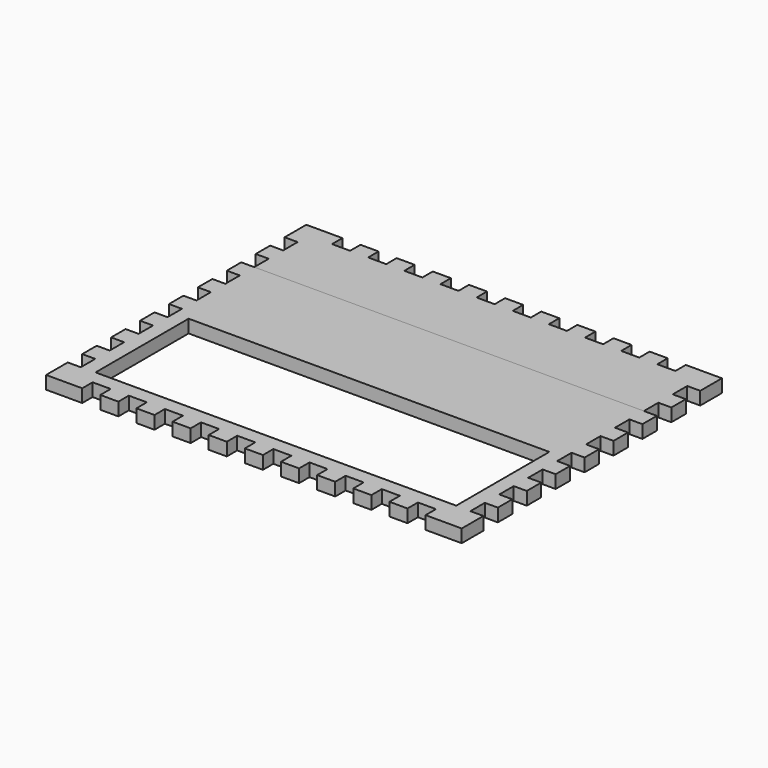
from build123d import *

# Parameters (mm, degrees)
F1_DEPTH = 9.144
F0_W     = 253.492
F0_H     = 81.788
F2_DEPTH = 9.144


with BuildPart() as f1:
    # F0 (on Top) → F1 (new body)
    with BuildSketch(Plane.XY):
        Polygon((25.4, 0), (0, 0), (0, -19.05), (9.144, -19.05), (9.144, -31.75), (0, -31.75), (0, -44.45), (9.144, -44.45), (9.144, -57.15), (282.956, -57.15), (282.956, -44.45), (292.1, -44.45), (292.1, -31.75), (282.956, -31.75), (282.956, -19.05), (292.1, -19.05), (292.1, 0), (266.7, 0), (266.7, -9.144), (254, -9.144), (254, 0), (241.3, 0), (241.3, -9.144), (228.6, -9.144), (228.6, 0), (215.9, 0), (215.9, -9.144), (203.2, -9.144), (203.2, 0), (190.5, 0), (190.5, -9.144), (177.8, -9.144), (177.8, 0), (165.1, 0), (165.1, -9.144), (152.4, -9.144), (152.4, 0), (139.7, 0), (139.7, -9.144), (127, -9.144), (127, 0), (114.3, 0), (114.3, -9.144), (101.6, -9.144), (101.6, 0), (88.9, 0), (88.9, -9.144), (76.2, -9.144), (76.2, 0), (63.5, 0), (63.5, -9.144), (50.8, -9.144), (50.8, 0), (38.1, 0), (38.1, -9.144), (25.4, -9.144), align=None)
    extrude(amount=F1_DEPTH)


with BuildPart() as f2:
    # F0 (on Top) → F2 (new body)
    with BuildSketch(Plane.XY):
        Polygon((282.956, -57.15), (9.144, -57.15), (0, -57.15), (0, -69.85), (9.144, -69.85), (9.144, -82.55), (0, -82.55), (0, -95.25), (9.144, -95.25), (9.144, -107.95), (0, -107.95), (0, -120.65), (9.144, -120.65), (9.144, -133.35), (0, -133.35), (0, -146.05), (9.144, -146.05), (9.144, -158.75), (0, -158.75), (0, -171.45), (9.144, -171.45), (9.144, -184.15), (0, -184.15), (0, -196.85), (9.144, -196.85), (9.144, -209.55), (0, -209.55), (0, -228.6), (25.4, -228.6), (25.4, -219.456), (38.1, -219.456), (38.1, -228.6), (50.8, -228.6), (50.8, -219.456), (63.5, -219.456), (63.5, -228.6), (76.2, -228.6), (76.2, -219.456), (88.9, -219.456), (88.9, -228.6), (101.6, -228.6), (101.6, -219.456), (114.3, -219.456), (114.3, -228.6), (127, -228.6), (127, -219.456), (139.7, -219.456), (139.7, -228.6), (152.4, -228.6), (152.4, -219.456), (165.1, -219.456), (165.1, -228.6), (177.8, -228.6), (177.8, -219.456), (190.5, -219.456), (190.5, -228.6), (203.2, -228.6), (203.2, -219.456), (215.9, -219.456), (215.9, -228.6), (228.6, -228.6), (228.6, -219.456), (241.3, -219.456), (241.3, -228.6), (254, -228.6), (254, -219.456), (266.7, -219.456), (266.7, -228.6), (292.1, -228.6), (292.1, -209.55), (282.956, -209.55), (282.956, -196.85), (292.1, -196.85), (292.1, -184.15), (282.956, -184.15), (282.956, -171.45), (292.1, -171.45), (292.1, -158.75), (282.956, -158.75), (282.956, -146.05), (292.1, -146.05), (292.1, -133.35), (282.956, -133.35), (282.956, -120.65), (292.1, -120.65), (292.1, -107.95), (282.956, -107.95), (282.956, -95.25), (292.1, -95.25), (292.1, -82.55), (282.956, -82.55), (282.956, -69.85), (292.1, -69.85), (292.1, -57.15), align=None)
        with Locations((146.05, -168.402)):
            Rectangle(F0_W, F0_H, mode=Mode.SUBTRACT)
    extrude(amount=F2_DEPTH)


solid = Compound([f1.part, f2.part])
